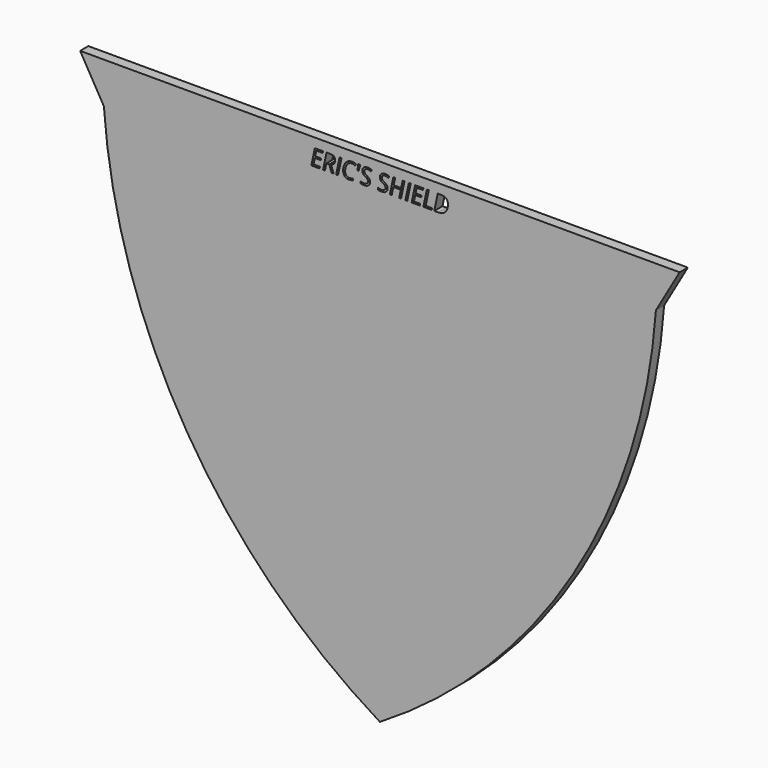
from build123d import *

# Parameters (mm, degrees)
F1_DEPTH = 6.35


with BuildPart() as f1:
    # F0 (on Front) → F1 (new body)
    with BuildSketch(Plane.XZ):
        Polygon((-185.2088489161, 204.4759082784), (-170.5441520787, 179.0759082784), (170.5441520787, 179.0759082784), (185.2088489161, 204.4759082784), align=None)
        Polygon((-37.0346453147, 189.6198737022), (-37.2629600516, 188.5669659348), (-42.3546003502, 188.5669659348), (-40.2155350963, 198.6948303336), (-35.1238947978, 198.6948303336), (-35.3455595909, 197.6352726224), (-39.2645931337, 197.6352726224), (-39.9451040487, 194.3856667549), (-36.2942849056, 194.3856667549), (-36.4937832194, 193.3327589874), (-40.160118898, 193.3327589874), (-40.9492455616, 189.6198737022), align=None, mode=Mode.SUBTRACT)
        with BuildLine():
            Line((-31.2846605805, 192.7785970046), (-33.0313791505, 192.7785970046))
            Line((-33.0313791505, 192.7785970046), (-33.9246882669, 188.5669659348))
            Line((-33.9246882669, 188.5669659348), (-35.1017283185, 188.5669659348))
            Line((-35.1017283185, 188.5669659348), (-32.9626630646, 198.6948303336))
            Line((-32.9626630646, 198.6948303336), (-30.7460151332, 198.6948303336))
            add(Edge.make_bspline(
                [(-30.7460151332, 198.6948303336), (-27.6560079167, 198.6948303336), (-27.6560079167, 196.1589851)],
                knots=[0, 0, 0, 1, 1, 1], degree=2))
            add(Edge.make_bspline(
                [(-27.6560079167, 196.1589851), (-27.6560079167, 193.7494887985), (-30.2051530379, 193.0490280522)],
                knots=[0, 0, 0, 1, 1, 1], degree=2))
            Line((-30.2051530379, 193.0490280522), (-28.5493170331, 188.5669659348))
            Line((-28.5493170331, 188.5669659348), (-29.8371894813, 188.5669659348))
            Line((-29.8371894813, 188.5669659348), (-31.2846605805, 192.7785970046))
        make_face(mode=Mode.SUBTRACT)
        Polygon((-25.8671730361, 188.5669659348), (-27.0309132001, 188.5669659348), (-24.8763314107, 198.6948303336), (-23.7125912467, 198.6948303336), align=None, mode=Mode.SUBTRACT)
        with BuildLine():
            add(Edge.make_bspline(
                [(-15.295979051, 197.3094253764), (-16.2535709574, 197.7860046817), (-17.2288960472, 197.7860046817)],
                knots=[0, 0, 0, 1, 1, 1], degree=2))
            add(Edge.make_bspline(
                [(-17.2288960472, 197.7860046817), (-18.4347525219, 197.7860046817), (-19.3868028085, 197.1143603585)],
                knots=[0, 0, 0, 1, 1, 1], degree=2))
            add(Edge.make_bspline(
                [(-19.3868028085, 197.1143603585), (-20.338853095, 196.4427160353), (-20.8963400498, 195.1437603474)],
                knots=[0, 0, 0, 1, 1, 1], degree=2))
            add(Edge.make_bspline(
                [(-20.8963400498, 195.1437603474), (-21.4538270045, 193.8448046596), (-21.4538270045, 192.3153175869)],
                knots=[0, 0, 0, 1, 1, 1], degree=2))
            add(Edge.make_bspline(
                [(-21.4538270045, 192.3153175869), (-21.4538270045, 191.018578547), (-20.7788577094, 190.2460767429)],
                knots=[0, 0, 0, 1, 1, 1], degree=2))
            add(Edge.make_bspline(
                [(-20.7788577094, 190.2460767429), (-20.1038884143, 189.4735749388), (-18.9201984189, 189.4735749388)],
                knots=[0, 0, 0, 1, 1, 1], degree=2))
            add(Edge.make_bspline(
                [(-18.9201984189, 189.4735749388), (-17.9559565687, 189.4735749388), (-16.6880339519, 189.8703549185)],
                knots=[0, 0, 0, 1, 1, 1], degree=2))
            Line((-16.6880339519, 189.8703549185), (-16.6880339519, 188.8373969824))
            add(Edge.make_bspline(
                [(-16.6880339519, 188.8373969824), (-17.2843122455, 188.6223821331), (-17.8251743408, 188.5248496241)],
                knots=[0, 0, 0, 1, 1, 1], degree=2))
            add(Edge.make_bspline(
                [(-17.8251743408, 188.5248496241), (-18.366036436, 188.4273171151), (-19.1263466765, 188.4273171151)],
                knots=[0, 0, 0, 1, 1, 1], degree=2))
            add(Edge.make_bspline(
                [(-19.1263466765, 188.4273171151), (-20.8043491606, 188.4273171151), (-21.7597244191, 189.4636000231)],
                knots=[0, 0, 0, 1, 1, 1], degree=2))
            add(Edge.make_bspline(
                [(-21.7597244191, 189.4636000231), (-22.7150996775, 190.499882931), (-22.7150996775, 192.2865011638)],
                knots=[0, 0, 0, 1, 1, 1], degree=2))
            add(Edge.make_bspline(
                [(-22.7150996775, 192.2865011638), (-22.7150996775, 194.0952858758), (-21.9847141841, 195.6502643998)],
                knots=[0, 0, 0, 1, 1, 1], degree=2))
            add(Edge.make_bspline(
                [(-21.9847141841, 195.6502643998), (-21.2543286907, 197.2052429237), (-20.0207641169, 198.0220776864)],
                knots=[0, 0, 0, 1, 1, 1], degree=2))
            add(Edge.make_bspline(
                [(-20.0207641169, 198.0220776864), (-18.787199543, 198.8389124491), (-17.2288960472, 198.8389124491)],
                knots=[0, 0, 0, 1, 1, 1], degree=2))
            add(Edge.make_bspline(
                [(-17.2288960472, 198.8389124491), (-15.8656575694, 198.8389124491), (-14.8193997457, 198.2847504663)],
                knots=[0, 0, 0, 1, 1, 1], degree=2))
            Line((-14.8193997457, 198.2847504663), (-15.295979051, 197.3094253764))
        make_face(mode=Mode.SUBTRACT)
        with BuildLine():
            add(Edge.make_bspline(
                [(-6.2376472791, 192.4771328859), (-6.0547738248, 192.0581864268), (-6.0547738248, 191.504024444)],
                knots=[0, 0, 0, 1, 1, 1], degree=2))
            add(Edge.make_bspline(
                [(-6.0547738248, 191.504024444), (-6.0547738248, 190.0432534572), (-7.0278822667, 189.2352852861)],
                knots=[0, 0, 0, 1, 1, 1], degree=2))
            add(Edge.make_bspline(
                [(-7.0278822667, 189.2352852861), (-8.0009907086, 188.4273171151), (-9.7676591099, 188.4273171151)],
                knots=[0, 0, 0, 1, 1, 1], degree=2))
            add(Edge.make_bspline(
                [(-9.7676591099, 188.4273171151), (-10.5013695752, 188.4273171151), (-11.05885653, 188.528174596)],
                knots=[0, 0, 0, 1, 1, 1], degree=2))
            add(Edge.make_bspline(
                [(-11.05885653, 188.528174596), (-11.6163434848, 188.6290320769), (-12.1084393255, 188.8639967576)],
                knots=[0, 0, 0, 1, 1, 1], degree=2))
            Line((-12.1084393255, 188.8639967576), (-12.1084393255, 190.0432534572))
            add(Edge.make_bspline(
                [(-12.1084393255, 190.0432534572), (-10.9868154722, 189.4602750512), (-9.7543592223, 189.4602750512)],
                knots=[0, 0, 0, 1, 1, 1], degree=2))
            add(Edge.make_bspline(
                [(-9.7543592223, 189.4602750512), (-8.6305187211, 189.4602750512), (-7.9732826094, 189.983403963)],
                knots=[0, 0, 0, 1, 1, 1], degree=2))
            add(Edge.make_bspline(
                [(-7.9732826094, 189.983403963), (-7.3160464978, 190.5065328748), (-7.3160464978, 191.4220084705)],
                knots=[0, 0, 0, 1, 1, 1], degree=2))
            add(Edge.make_bspline(
                [(-7.3160464978, 191.4220084705), (-7.3160464978, 191.9606539179), (-7.6795767585, 192.3729504331)],
                knots=[0, 0, 0, 1, 1, 1], degree=2))
            add(Edge.make_bspline(
                [(-7.6795767585, 192.3729504331), (-8.0431070193, 192.7852469484), (-9.0339486446, 193.346058875)],
                knots=[0, 0, 0, 1, 1, 1], degree=2))
            add(Edge.make_bspline(
                [(-9.0339486446, 193.346058875), (-10.0779898203, 193.9356872248), (-10.4836363918, 194.5242072506)],
                knots=[0, 0, 0, 1, 1, 1], degree=2))
            add(Edge.make_bspline(
                [(-10.4836363918, 194.5242072506), (-10.8892829632, 195.1127272764), (-10.8892829632, 195.9173704755)],
                knots=[0, 0, 0, 1, 1, 1], degree=2))
            add(Edge.make_bspline(
                [(-10.8892829632, 195.9173704755), (-10.8892829632, 197.2118928675), (-9.9749156915, 198.0254026583)],
                knots=[0, 0, 0, 1, 1, 1], degree=2))
            add(Edge.make_bspline(
                [(-9.9749156915, 198.0254026583), (-9.0605484198, 198.8389124491), (-7.5709610099, 198.8389124491)],
                knots=[0, 0, 0, 1, 1, 1], degree=2))
            add(Edge.make_bspline(
                [(-7.5709610099, 198.8389124491), (-6.8860167991, 198.8389124491), (-6.2930634774, 198.7081302212)],
                knots=[0, 0, 0, 1, 1, 1], degree=2))
            add(Edge.make_bspline(
                [(-6.2930634774, 198.7081302212), (-5.7001101557, 198.5773479932), (-5.043982368, 198.2581506911)],
                knots=[0, 0, 0, 1, 1, 1], degree=2))
            Line((-5.043982368, 198.2581506911), (-5.5006118419, 197.2185428113))
            add(Edge.make_bspline(
                [(-5.5006118419, 197.2185428113), (-5.9572413158, 197.4823239151), (-6.5258115102, 197.6341642984)],
                knots=[0, 0, 0, 1, 1, 1], degree=2))
            add(Edge.make_bspline(
                [(-6.5258115102, 197.6341642984), (-7.0943817046, 197.7860046817), (-7.5709610099, 197.7860046817)],
                knots=[0, 0, 0, 1, 1, 1], degree=2))
            add(Edge.make_bspline(
                [(-7.5709610099, 197.7860046817), (-8.4997364931, 197.7860046817), (-9.0638733917, 197.3049920806)],
                knots=[0, 0, 0, 1, 1, 1], degree=2))
            add(Edge.make_bspline(
                [(-9.0638733917, 197.3049920806), (-9.6280102903, 196.8239794795), (-9.6280102903, 195.999386449)],
                knots=[0, 0, 0, 1, 1, 1], degree=2))
            add(Edge.make_bspline(
                [(-9.6280102903, 195.999386449), (-9.6280102903, 195.6247729485), (-9.5105279499, 195.3587751968)],
                knots=[0, 0, 0, 1, 1, 1], degree=2))
            add(Edge.make_bspline(
                [(-9.5105279499, 195.3587751968), (-9.3930456095, 195.092777445), (-9.1370227734, 194.8567044403)],
                knots=[0, 0, 0, 1, 1, 1], degree=2))
            add(Edge.make_bspline(
                [(-9.1370227734, 194.8567044403), (-8.8809999374, 194.6206314356), (-8.1539394158, 194.1994683286)],
                knots=[0, 0, 0, 1, 1, 1], degree=2))
            add(Edge.make_bspline(
                [(-8.1539394158, 194.1994683286), (-7.1342813674, 193.5898901475), (-6.7774010504, 193.2429847462)],
                knots=[0, 0, 0, 1, 1, 1], degree=2))
            add(Edge.make_bspline(
                [(-6.7774010504, 193.2429847462), (-6.4205207334, 192.8960793449), (-6.2376472791, 192.4771328859)],
                knots=[0, 0, 0, 1, 1, 1], degree=2))
        make_face(mode=Mode.SUBTRACT)
        Polygon((-13.3985284217, 198.6948303336), (-12.095139438, 198.6948303336), (-13.1546971492, 195.0373612467), (-13.8972742062, 195.0373612467), align=None, mode=Mode.SUBTRACT)
        with BuildLine():
            add(Edge.make_bspline(
                [(4.5707280346, 192.4771328859), (4.753601489, 192.0581864268), (4.753601489, 191.504024444)],
                knots=[0, 0, 0, 1, 1, 1], degree=2))
            add(Edge.make_bspline(
                [(4.753601489, 191.504024444), (4.753601489, 190.0432534572), (3.7804930471, 189.2352852861)],
                knots=[0, 0, 0, 1, 1, 1], degree=2))
            add(Edge.make_bspline(
                [(3.7804930471, 189.2352852861), (2.8073846052, 188.4273171151), (1.0407162038, 188.4273171151)],
                knots=[0, 0, 0, 1, 1, 1], degree=2))
            add(Edge.make_bspline(
                [(1.0407162038, 188.4273171151), (0.3070057385, 188.4273171151), (-0.2504812163, 188.528174596)],
                knots=[0, 0, 0, 1, 1, 1], degree=2))
            add(Edge.make_bspline(
                [(-0.2504812163, 188.528174596), (-0.807968171, 188.6290320769), (-1.3000640118, 188.8639967576)],
                knots=[0, 0, 0, 1, 1, 1], degree=2))
            Line((-1.3000640118, 188.8639967576), (-1.3000640118, 190.0432534572))
            add(Edge.make_bspline(
                [(-1.3000640118, 190.0432534572), (-0.1784401585, 189.4602750512), (1.0540160914, 189.4602750512)],
                knots=[0, 0, 0, 1, 1, 1], degree=2))
            add(Edge.make_bspline(
                [(1.0540160914, 189.4602750512), (2.1778565926, 189.4602750512), (2.8350927043, 189.983403963)],
                knots=[0, 0, 0, 1, 1, 1], degree=2))
            add(Edge.make_bspline(
                [(2.8350927043, 189.983403963), (3.492328816, 190.5065328748), (3.492328816, 191.4220084705)],
                knots=[0, 0, 0, 1, 1, 1], degree=2))
            add(Edge.make_bspline(
                [(3.492328816, 191.4220084705), (3.492328816, 191.9606539179), (3.1287985552, 192.3729504331)],
                knots=[0, 0, 0, 1, 1, 1], degree=2))
            add(Edge.make_bspline(
                [(3.1287985552, 192.3729504331), (2.7652682945, 192.7852469484), (1.7744266691, 193.346058875)],
                knots=[0, 0, 0, 1, 1, 1], degree=2))
            add(Edge.make_bspline(
                [(1.7744266691, 193.346058875), (0.7303854934, 193.9356872248), (0.324738922, 194.5242072506)],
                knots=[0, 0, 0, 1, 1, 1], degree=2))
            add(Edge.make_bspline(
                [(0.324738922, 194.5242072506), (-0.0809076495, 195.1127272764), (-0.0809076495, 195.9173704755)],
                knots=[0, 0, 0, 1, 1, 1], degree=2))
            add(Edge.make_bspline(
                [(-0.0809076495, 195.9173704755), (-0.0809076495, 197.2118928675), (0.8334596222, 198.0254026583)],
                knots=[0, 0, 0, 1, 1, 1], degree=2))
            add(Edge.make_bspline(
                [(0.8334596222, 198.0254026583), (1.7478268939, 198.8389124491), (3.2374143039, 198.8389124491)],
                knots=[0, 0, 0, 1, 1, 1], degree=2))
            add(Edge.make_bspline(
                [(3.2374143039, 198.8389124491), (3.9223585147, 198.8389124491), (4.5153118364, 198.7081302212)],
                knots=[0, 0, 0, 1, 1, 1], degree=2))
            add(Edge.make_bspline(
                [(4.5153118364, 198.7081302212), (5.108265158, 198.5773479932), (5.7643929457, 198.2581506911)],
                knots=[0, 0, 0, 1, 1, 1], degree=2))
            Line((5.7643929457, 198.2581506911), (5.3077634719, 197.2185428113))
            add(Edge.make_bspline(
                [(5.3077634719, 197.2185428113), (4.851133998, 197.4823239151), (4.2825638036, 197.6341642984)],
                knots=[0, 0, 0, 1, 1, 1], degree=2))
            add(Edge.make_bspline(
                [(4.2825638036, 197.6341642984), (3.7139936091, 197.7860046817), (3.2374143039, 197.7860046817)],
                knots=[0, 0, 0, 1, 1, 1], degree=2))
            add(Edge.make_bspline(
                [(3.2374143039, 197.7860046817), (2.3086388206, 197.7860046817), (1.7445019221, 197.3049920806)],
                knots=[0, 0, 0, 1, 1, 1], degree=2))
            add(Edge.make_bspline(
                [(1.7445019221, 197.3049920806), (1.1803650235, 196.8239794795), (1.1803650235, 195.999386449)],
                knots=[0, 0, 0, 1, 1, 1], degree=2))
            add(Edge.make_bspline(
                [(1.1803650235, 195.999386449), (1.1803650235, 195.6247729485), (1.2978473639, 195.3587751968)],
                knots=[0, 0, 0, 1, 1, 1], degree=2))
            add(Edge.make_bspline(
                [(1.2978473639, 195.3587751968), (1.4153297042, 195.092777445), (1.6713525403, 194.8567044403)],
                knots=[0, 0, 0, 1, 1, 1], degree=2))
            add(Edge.make_bspline(
                [(1.6713525403, 194.8567044403), (1.9273753764, 194.6206314356), (2.6544358979, 194.1994683286)],
                knots=[0, 0, 0, 1, 1, 1], degree=2))
            add(Edge.make_bspline(
                [(2.6544358979, 194.1994683286), (3.6740939464, 193.5898901475), (4.0309742633, 193.2429847462)],
                knots=[0, 0, 0, 1, 1, 1], degree=2))
            add(Edge.make_bspline(
                [(4.0309742633, 193.2429847462), (4.3878545803, 192.8960793449), (4.5707280346, 192.4771328859)],
                knots=[0, 0, 0, 1, 1, 1], degree=2))
        make_face(mode=Mode.SUBTRACT)
        Polygon((15.2139630775, 198.6948303336), (13.0682478799, 188.5669659348), (11.9111576596, 188.5669659348), (12.901999285, 193.3327589874), (8.3290546024, 193.3327589874), (7.3249130895, 188.5669659348), (6.1478730379, 188.5669659348), (8.2869382917, 198.6948303336), (9.4661949913, 198.6948303336), (8.5573693394, 194.3856667549), (13.1303140219, 194.3856667549), (14.0502229135, 198.6948303336), align=None, mode=Mode.SUBTRACT)
        Polygon((16.9340818723, 188.5669659348), (15.7703417083, 188.5669659348), (17.9249234977, 198.6948303336), (19.0886636617, 198.6948303336), align=None, mode=Mode.SUBTRACT)
        Polygon((24.96278068, 189.6198737022), (24.7344659431, 188.5669659348), (19.6428256445, 188.5669659348), (21.7818908984, 198.6948303336), (26.8735311969, 198.6948303336), (26.6518664038, 197.6352726224), (22.732832861, 197.6352726224), (22.052321946, 194.3856667549), (25.7031410891, 194.3856667549), (25.5036427753, 193.3327589874), (21.8373070967, 193.3327589874), (21.0481804331, 189.6198737022), align=None, mode=Mode.SUBTRACT)
        Polygon((31.9873379748, 188.5669659348), (26.8956976762, 188.5669659348), (29.0347629301, 198.6948303336), (30.2140196296, 198.6948303336), (28.3010524648, 189.6331735898), (32.2156527117, 189.6331735898), align=None, mode=Mode.SUBTRACT)
        with BuildLine():
            add(Edge.make_bspline(
                [(41.0368031549, 197.6585474257), (42.0309697522, 196.6222645177), (42.0309697522, 194.6427979149)],
                knots=[0, 0, 0, 1, 1, 1], degree=2))
            add(Edge.make_bspline(
                [(42.0309697522, 194.6427979149), (42.0309697522, 192.8340132029), (41.3028009067, 191.4486082457)],
                knots=[0, 0, 0, 1, 1, 1], degree=2))
            add(Edge.make_bspline(
                [(41.3028009067, 191.4486082457), (40.5746320612, 190.0632032885), (39.224693471, 189.3150846117)],
                knots=[0, 0, 0, 1, 1, 1], degree=2))
            add(Edge.make_bspline(
                [(39.224693471, 189.3150846117), (37.8747548807, 188.5669659348), (36.0593202249, 188.5669659348)],
                knots=[0, 0, 0, 1, 1, 1], degree=2))
            Line((36.0593202249, 188.5669659348), (33.6210075003, 188.5669659348))
            Line((33.6210075003, 188.5669659348), (35.7600727541, 198.6948303336))
            Line((35.7600727541, 198.6948303336), (38.1296693928, 198.6948303336))
            add(Edge.make_bspline(
                [(38.1296693928, 198.6948303336), (40.0426365577, 198.6948303336), (41.0368031549, 197.6585474257)],
                knots=[0, 0, 0, 1, 1, 1], degree=2))
        make_face(mode=Mode.SUBTRACT)
        with BuildLine():
            Line((170.5441520787, 179.0759082784), (-170.5441520787, 179.0759082784))
            ThreePointArc((-170.5441520787, 179.0759082784), (-119.2185164188, 18.6551964295), (0, -100.3240917216))
            ThreePointArc((0, -100.3240917216), (119.2185164188, 18.6551964295), (170.5441520787, 179.0759082784))
        make_face()
    extrude(amount=F1_DEPTH)


solid = f1.part
